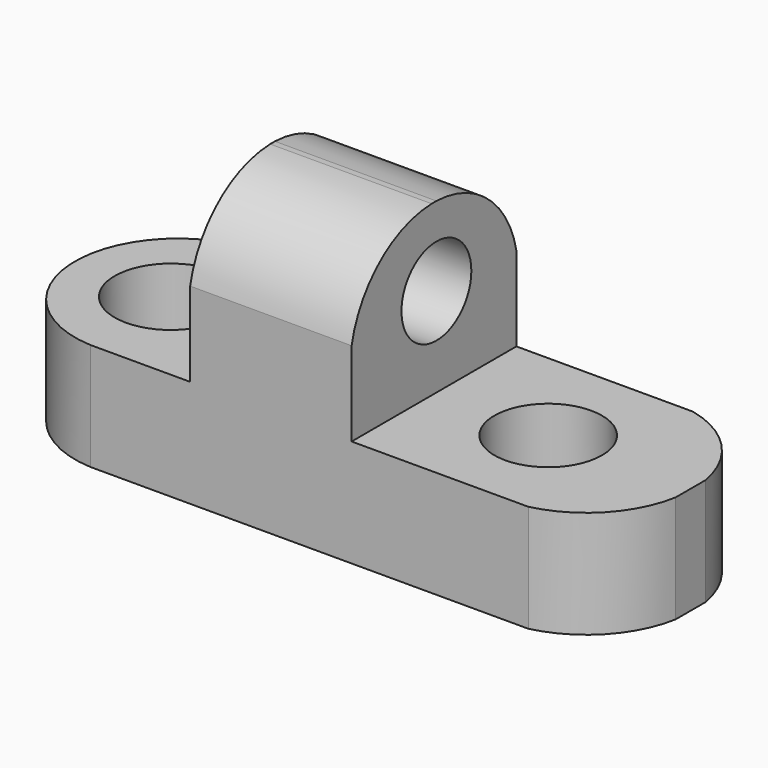
from build123d import *

# Parameters (mm, degrees)
F1_DEPTH  = 25.4
F2_R      = 6.9358016154
F2_R_2    = 6.6322643692
F3_DEPTH  = 13.2470994646
F5_DEPTH  = 44.5399002562
F6_R      = 5.3858777777
F7_DEPTH  = 44.5399002562
F9_DEPTH  = 13.2470994646
F11_DEPTH = 13.2470994646


with BuildPart() as f1:
    # F0 (on Front) → F1 (new body)
    with BuildSketch(Plane.XZ):
        Polygon((0, 13.2460994646), (0, 0), (76.1873051524, 0), (76.1873051524, 13.2460994646), (44.5389002562, 13.2460994646), (44.5389002562, 34.0486988425), (24.6252994984, 34.0486988425), (24.6252994984, 13.2460994646), align=None)
    extrude(amount=F1_DEPTH)

    # F2 (on face) → F3 (cut, through all)
    with BuildSketch(Plane.XY.offset(13.2460994646)):
        with Locations((12.0889488608, -12.7)):
            Circle(F2_R)
        with Locations((58.5328303277, -12.590335682)):
            Circle(F2_R_2)
    extrude(amount=-F3_DEPTH, mode=Mode.SUBTRACT)

    # F4 (on face) → F5 (cut, through all)
    with BuildSketch(Plane.YZ.offset(44.5389002562)):
        with BuildLine():
            ThreePointArc((-25.4, 23.6473991536), (-21.0511599992, 31.0022821178), (-13.0682997406, 34.0486988425))
            Line((-13.0682997406, 34.0486988425), (-25.4, 34.0486988425))
            Line((-25.4, 34.0486988425), (-25.4, 23.6473991536))
        make_face()
        with BuildLine():
            ThreePointArc((-12.3317002594, 34.0486988425), (-4.3488400008, 31.0022821178), (0, 23.6473991536))
            Line((0, 23.6473991536), (0, 34.0486988425))
            Line((0, 34.0486988425), (-12.3317002594, 34.0486988425))
        make_face()
    extrude(amount=-F5_DEPTH, mode=Mode.SUBTRACT)

    # F6 (on face) → F7 (cut, through all)
    with BuildSketch(Plane.YZ.offset(44.5389002562)):
        with Locations((-12.3317002594, 24.269701913)):
            Circle(F6_R)
    extrude(amount=-F7_DEPTH, mode=Mode.SUBTRACT)

    # F8 (on face) → F9 (cut, through all)
    with BuildSketch(Plane.XY.offset(13.2460994646)):
        with BuildLine():
            ThreePointArc((12.3126497492, -25.4), (0.2620769816, -12.7), (12.3126497492, 0))
            Line((12.3126497492, 0), (0, 0))
            Line((0, 0), (0, -25.4))
            Line((0, -25.4), (12.3126497492, -25.4))
        make_face()
    extrude(amount=-F9_DEPTH, mode=Mode.SUBTRACT)

    # F10 (on face) → F11 (cut, through all)
    with BuildSketch(Plane.XY.offset(13.2460994646)):
        with BuildLine():
            ThreePointArc((66.3337183287, 0), (72.8118717617, -3.7197458837), (76.1873051524, -10.383786007))
            Line((76.1873051524, -10.383786007), (76.1873051524, 0))
            Line((76.1873051524, 0), (66.3337183287, 0))
        make_face()
        with BuildLine():
            ThreePointArc((76.1873051524, -15.016213993), (72.8118717617, -21.6802541163), (66.3337183287, -25.4))
            Line((66.3337183287, -25.4), (76.1873051524, -25.4))
            Line((76.1873051524, -25.4), (76.1873051524, -15.016213993))
        make_face()
    extrude(amount=-F11_DEPTH, mode=Mode.SUBTRACT)


solid = f1.part
